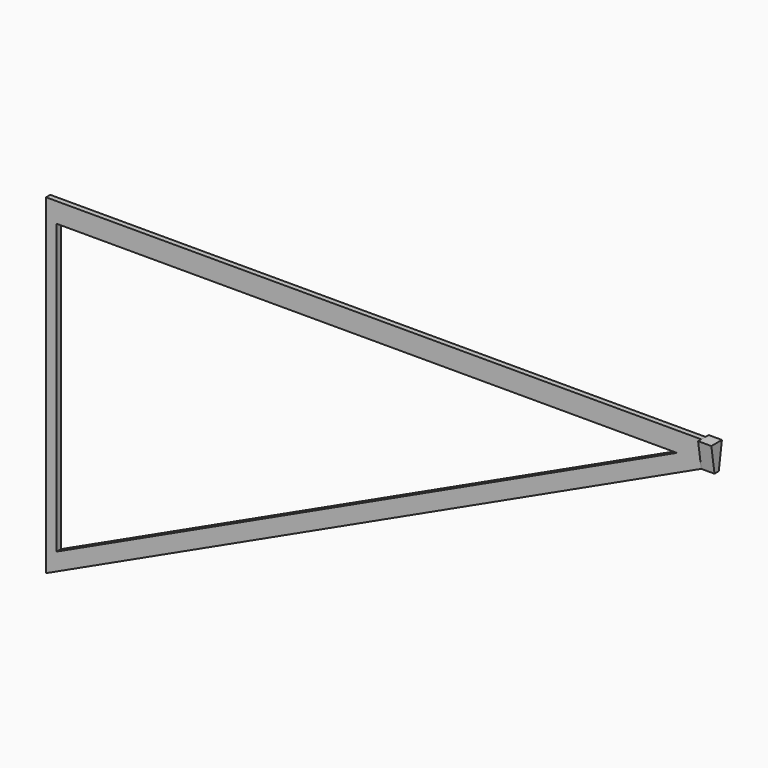
from build123d import *

# Parameters (mm, degrees)
F1_DEPTH  = 4
F3_DEPTH  = 4
F4_W      = 10
F4_H      = 10
F5_DEPTH  = 24.7904
F7_DEPTH  = 10
F9_DEPTH  = 4
F4_H_2    = 3
F4_H_3    = 4
F11_DEPTH = 0.01


with BuildPart() as f1:
    # F0 (on Front) → F1 (new body)
    with BuildSketch(Plane.XZ):
        Polygon((239.7020892799, 112.8335457823), (-265.2979107201, 112.8335457823), (-265.2979107201, -137.1664542177), (239.7020892799, 97.8335457823), align=None)
    extrude(amount=F1_DEPTH)

    # F2 (on face) → F3 (cut)
    with BuildSketch(Plane.XZ.offset(4)):
        Polygon((211.2594902502, 97.8335457823), (189.459964633, 97.8335457823), (-257.2979107201, 97.8335457823), (-257.2979107201, -120.2080170455), (191.9194537148, 88.8337268004), align=None)
    extrude(amount=-F3_DEPTH, mode=Mode.SUBTRACT)

    # F4 (on face) → F5 (join)
    with BuildSketch(Plane.XY.offset(112.8335457823)):
        with Locations((234.7020892799, -2)):
            Rectangle(F4_W, F4_H)
    extrude(amount=-F5_DEPTH)

    # F6 (on face) → F7 (cut)
    with BuildSketch(Plane(origin=(229.7020892799, 0, 0), x_dir=(0, -1, 0), z_dir=(-1, 0, 0))):
        Polygon((7, 112.8335457823), (4, 93.1800804357), (0, 93.1800804357), (-3, 112.8335457823), (-3, 88.0431457823), (7, 88.0431457823), align=None)
    extrude(amount=-F7_DEPTH, mode=Mode.SUBTRACT)

    # F4 (on face) → F11 (join)
    with BuildSketch(Plane.XY.offset(112.8335457823)):
        with Locations((234.7020892799, 1.5)):
            Rectangle(F4_W, F4_H_2)
        with Locations((234.7020892799, -2)):
            Rectangle(F4_W, F4_H_3)
        with Locations((234.7020892799, -5.5)):
            Rectangle(F4_W, F4_H_2)
    extrude(amount=F11_DEPTH)


with BuildPart() as f9:
    # F8 (on face) → F9 (new body)
    with BuildSketch(Plane.XZ.offset(4)):
        Polygon((-265.2979107201, -137.1664542177), (241.7362299691, 93.1800804357), (229.7020892799, 93.1800804357), align=None)
    extrude(amount=-F9_DEPTH)


solid = f1.part
